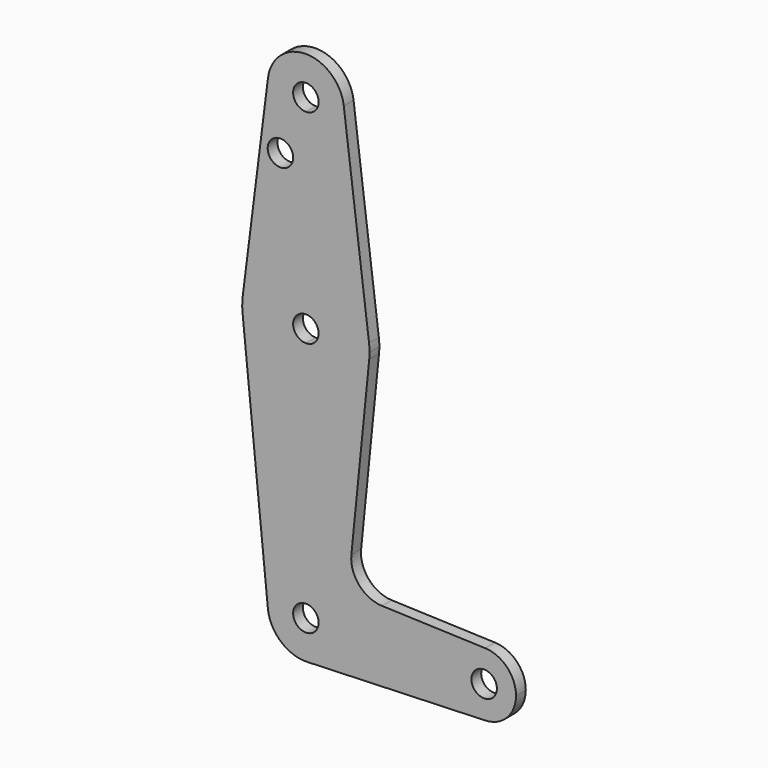
from build123d import *

# Parameters (mm, degrees)
F0_R     = 3.175
F1_DEPTH = 3.048


with BuildPart() as f1:
    # F0 (on Front) → F1 (new body)
    with BuildSketch(Plane.XZ):
        with BuildLine():
            ThreePointArc((0, 104.775), (6.7351920908, 107.5648079092), (9.525, 114.3))
            ThreePointArc((9.525, 114.3), (9.5063048942, 114.896483242), (9.4502929642, 115.490625))
            ThreePointArc((9.4502929642, 115.490625), (0, 123.825), (-9.4502929642, 115.490625))
            ThreePointArc((-9.4502929642, 115.490625), (-7.14375, 107.9998046905), (0, 104.775))
        make_face()
        with BuildLine():
            ThreePointArc((3.175, 114.3), (2.2450640303, 112.0549359697), (0, 111.125))
            ThreePointArc((0, 111.125), (-2.2450640303, 116.5450640303), (3.175, 114.3))
        make_face(mode=Mode.SUBTRACT)
        with BuildLine():
            ThreePointArc((0, 47.625), (-10.6492737428, 51.7267849017), (-15.7954255641, 61.9125))
            Line((-15.7954255641, 61.9125), (-9.4772553384, -0.9525))
            ThreePointArc((-9.4772553384, -0.9525), (-7.063929059, 6.3895642457), (0, 9.525))
            Line((0, 9.525), (0, 47.625))
        make_face()
        with BuildLine():
            ThreePointArc((9.525, 0), (6.8544082857, -6.6138273378), (0.3401785714, -9.5189234444))
            Line((0.3401785714, -9.5189234444), (44.7334821429, -7.9324362036))
            ThreePointArc((44.7334821429, -7.9324362036), (38.9384772185, -5.7120069047), (36.5125, 0))
            Line((36.5125, 0), (9.525, 0))
        make_face()
        with BuildLine():
            ThreePointArc((36.5125, 0), (38.9384772185, -5.7120069047), (44.7334821429, -7.9324362036))
            ThreePointArc((44.7334821429, -7.9324362036), (50.1620069047, -5.5115227815), (52.3875, 0))
            ThreePointArc((52.3875, 0), (50.1620069047, 5.5115227815), (44.7334821429, 7.9324362036))
            ThreePointArc((44.7334821429, 7.9324362036), (38.9384772185, 5.7120069047), (36.5125, 0))
        make_face()
        with BuildLine():
            ThreePointArc((47.625, 0), (44.45, -3.175), (41.275, 0))
            ThreePointArc((41.275, 0), (44.45, 3.175), (47.625, 0))
        make_face(mode=Mode.SUBTRACT)
        with BuildLine():
            Line((0, 79.375), (0, 104.775))
            ThreePointArc((0, 104.775), (-7.14375, 107.9998046905), (-9.4502929642, 115.490625))
            Line((-9.4502929642, 115.490625), (-15.7504882737, 65.484375))
            ThreePointArc((-15.7504882737, 65.484375), (-10.5003255158, 75.40625), (0, 79.375))
        make_face()
        with Locations((-6.35, 100.0252)):
            Circle(F0_R, mode=Mode.SUBTRACT)
        with BuildLine():
            ThreePointArc((15.875, 63.5), (15.8438414904, 64.4941387366), (15.7504882737, 65.484375))
            ThreePointArc((15.7504882737, 65.484375), (10.5003255158, 75.40625), (0, 79.375))
            Line((0, 79.375), (0, 66.675))
            ThreePointArc((0, 66.675), (2.2450640303, 65.7450640303), (3.175, 63.5))
            ThreePointArc((3.175, 63.5), (2.2450640303, 61.2549359697), (0, 60.325))
            Line((0, 60.325), (0, 47.625))
            ThreePointArc((0, 47.625), (10.6492737428, 51.7267849017), (15.7954255641, 61.9125))
            ThreePointArc((15.7954255641, 61.9125), (15.8550939106, 62.7052534459), (15.875, 63.5))
        make_face()
        with BuildLine():
            Line((0, 66.675), (0, 79.375))
            ThreePointArc((0, 79.375), (-10.5003255158, 75.40625), (-15.7504882737, 65.484375))
            ThreePointArc((-15.7504882737, 65.484375), (-15.8737438155, 63.6997054867), (-15.7954255641, 61.9125))
            ThreePointArc((-15.7954255641, 61.9125), (-10.6492737428, 51.7267849017), (0, 47.625))
            Line((0, 47.625), (0, 60.325))
            ThreePointArc((0, 60.325), (-3.175, 63.5), (0, 66.675))
        make_face()
        with BuildLine():
            ThreePointArc((0, 9.525), (-7.063929059, 6.3895642457), (-9.4772553384, -0.9525))
            ThreePointArc((-9.4772553384, -0.9525), (-6.2623833816, -7.1769199091), (0.3401785714, -9.5189234444))
            ThreePointArc((0.3401785714, -9.5189234444), (6.8544082857, -6.6138273378), (9.525, 0))
            Line((9.525, 0), (3.175, 0))
            ThreePointArc((3.175, 0), (-2.2450640303, -2.2450640303), (0, 3.175))
            Line((0, 3.175), (0, 9.525))
        make_face()
        with BuildLine():
            Line((11.3411865923, 17.5933818124), (15.7954255641, 61.9125))
            ThreePointArc((15.7954255641, 61.9125), (10.6492737428, 51.7267849017), (0, 47.625))
            Line((0, 47.625), (0, 9.525))
            ThreePointArc((0, 9.525), (6.7351920908, 6.7351920908), (9.525, 0))
            Line((9.525, 0), (36.5125, 0))
            ThreePointArc((36.5125, 0), (38.9384772185, 5.7120069047), (44.7334821429, 7.9324362036))
            Line((44.7334821429, 7.9324362036), (18.9676000005, 8.8532337108))
            ThreePointArc((18.9676000005, 8.8532337108), (13.2611998974, 11.5713591498), (11.3411865923, 17.5933818124))
        make_face()
        with BuildLine():
            ThreePointArc((9.525, 0), (6.7351920908, 6.7351920908), (0, 9.525))
            Line((0, 9.525), (0, 3.175))
            ThreePointArc((0, 3.175), (2.2450640303, 2.2450640303), (3.175, 0))
            Line((3.175, 0), (9.525, 0))
        make_face()
        with BuildLine():
            ThreePointArc((9.4502929642, 115.490625), (9.5063048942, 114.896483242), (9.525, 114.3))
            ThreePointArc((9.525, 114.3), (6.7351920908, 107.5648079092), (0, 104.775))
            Line((0, 104.775), (0, 79.375))
            ThreePointArc((0, 79.375), (10.5003255158, 75.40625), (15.7504882737, 65.484375))
            Line((15.7504882737, 65.484375), (9.4502929642, 115.490625))
        make_face()
    extrude(amount=F1_DEPTH)


solid = f1.part
